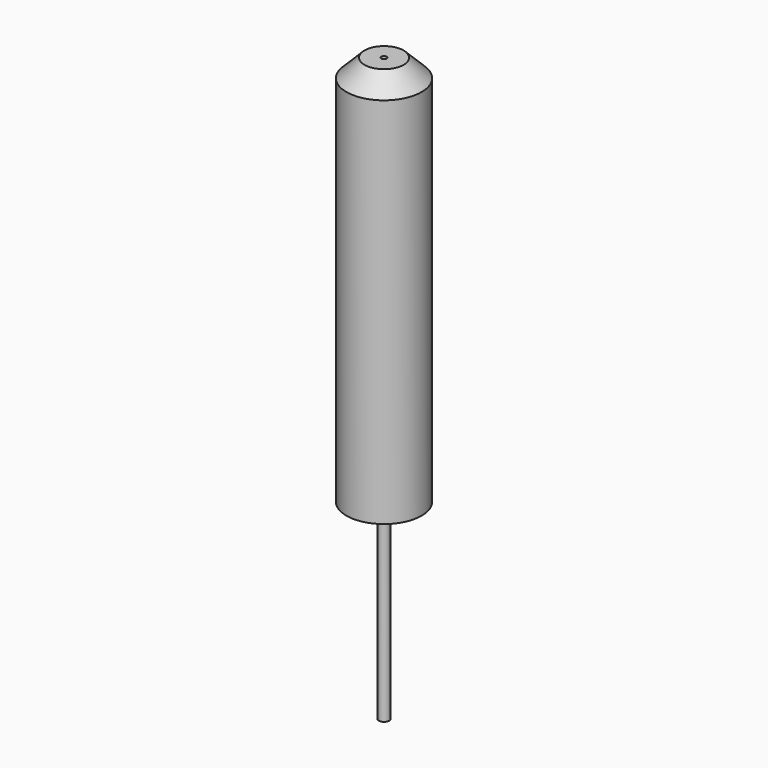
from build123d import *

# Parameters (mm, degrees)
SKETCH002_R  = 0.625
PAD001_DEPTH = 6.5
CHAMFER_SIZE = 0.3
SKETCH004_R  = 0.08636
PAD002_DEPTH = 3.175
SKETCH003_R  = 0.04445
POCKET_DEPTH = 9.676


with BuildPart() as part:
    # Sketch002 → Pad001 (new body)
    with BuildSketch(Plane.XY):
        Circle(SKETCH002_R)
    extrude(amount=PAD001_DEPTH)

    # Chamfer
    chamfer_edges = [part.edges().sort_by_distance(p)[0] for p in [
        (-0.625, 0, 6.5),
    ]]
    chamfer(chamfer_edges, length=CHAMFER_SIZE)

    # Sketch004 (on Face3 of Chamfer) → Pad002 (join)
    with BuildSketch(Plane(origin=(0, 0, 0), x_dir=(1, 0, 0), z_dir=(0, 0, -1))):
        Circle(SKETCH004_R)
    extrude(amount=PAD002_DEPTH)

    # Sketch003 (on Face4 of Chamfer) → Pocket (cut, through all)
    with BuildSketch(Plane.XY.offset(6.5)):
        Circle(SKETCH003_R)
    extrude(amount=-POCKET_DEPTH, mode=Mode.SUBTRACT)


with BuildPart() as part_1:
    # Body001 placement: moved
    add(part.part.moved(Location((7.52856, 0, 0))))


solid = part_1.part
